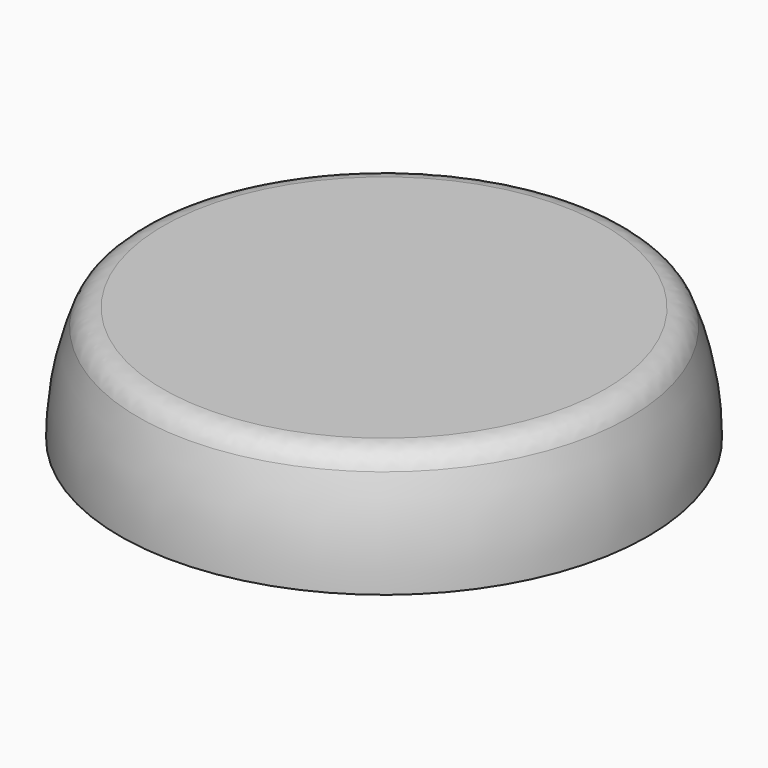
from build123d import *

# Parameters (mm, degrees)
F2_W     = 259.206295
F2_H     = 78.591727
F3_DEPTH = 142.494
F4_R     = 12.7


with BuildPart() as f1:
    # F0 (on Front) → F1 (revolve)
    with BuildSketch(Plane.XZ):
        with BuildLine():
            Line((0, 0), (126.59164, 0))
            ThreePointArc((126.59164, 0), (89.866531, 90.256872), (0, 127.927062))
            Line((0, 127.927062), (0, 0))
        make_face()
    revolve(axis=Axis((0, 0, 63.963531), (0, 0, 1)))

    # F2 (on Front) → F3 (cut, symmetric)
    with BuildSketch(Plane.XZ):
        with Locations((2.684816, 94.700593)):
            Rectangle(F2_W, F2_H)
    extrude(amount=F3_DEPTH, both=True, mode=Mode.SUBTRACT)

    # F4
    f4_edges = [f1.edges().sort_by_distance(p)[0] for p in [
        (-114.316281, 0, 55.40473),
    ]]
    fillet(f4_edges, radius=F4_R)


solid = f1.part
